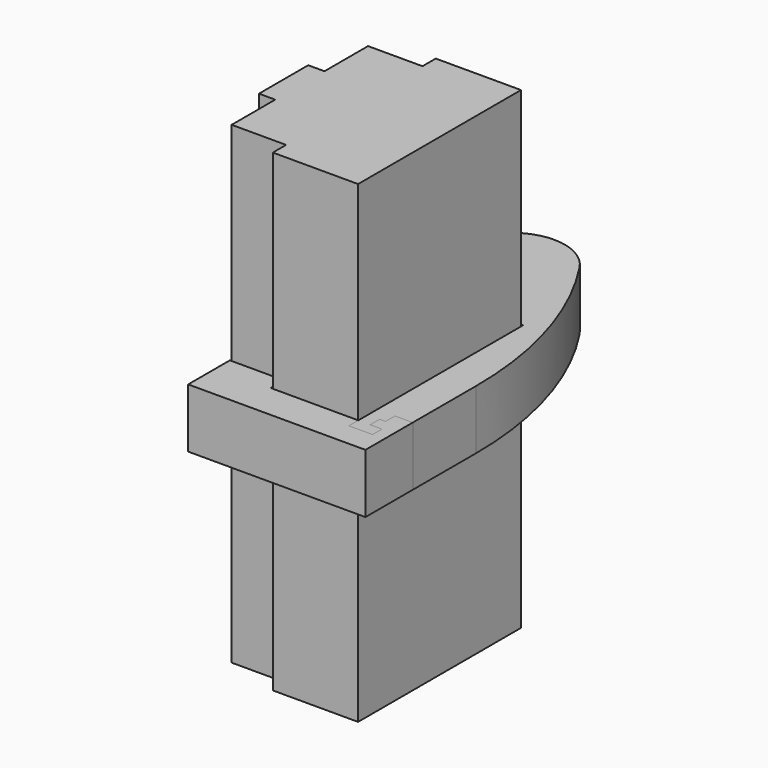
from build123d import *

# Parameters (mm, degrees)
F0_W     = 23
F0_H     = 23
F1_DEPTH = 100
F3_DEPTH = 12.5
F4_DEPTH = 12.5


with BuildPart() as f1:
    # F0 (on Top) → F1 (new body, symmetric)
    with BuildSketch(Plane.XY):
        Polygon((-18, -43), (18, -43), (18, 43), (-18, 43), (-18, 36), (-18, 13), (-18, -13), (-18, -36), align=None)
        with Locations((-29.5, -24.5)):
            Rectangle(F0_W, F0_H)
        with Locations((-29.5, 24.5)):
            Rectangle(F0_W, F0_H)
        Polygon((-41, -13), (-18, -13), (-18, 13), (-41, 13), (-47.8632581255, 13), (-47.8632581255, -13), align=None)
    extrude(amount=F1_DEPTH, both=True)


with BuildPart() as f3:
    # F2 (on Top) → F3 (new body, symmetric)
    with BuildSketch(Plane.XY):
        Polygon((18.5, -48.5), (18.5, -43.5), (-18.5, -43.5), (-18.5, -36.5), (-41.3665984659, -36.5), (-41.3665984659, -58.5), (33.5, -58.5), (33.5, -33.5), (26, -33.5), (26, -38.5), (23.5, -38.5), (23.5, -43.5), (28.5, -43.5), (28.5, -48.5), align=None)
    extrude(amount=F3_DEPTH, both=True)


with BuildPart() as f4:
    # F2 (on Top) → F4 (new body, symmetric)
    with BuildSketch(Plane.XY):
        with BuildLine():
            Line((-41.3665984659, 36.5), (-18.5, 36.5))
            Line((-18.5, 36.5), (-18.5, 43.5))
            Line((-18.5, 43.5), (18.5, 43.5))
            Line((18.5, 43.5), (18.5, -43.5))
            Line((18.5, -43.5), (18.5, -48.5))
            Line((18.5, -48.5), (28.5, -48.5))
            Line((28.5, -48.5), (28.5, -43.5))
            Line((28.5, -43.5), (23.5, -43.5))
            Line((23.5, -43.5), (23.5, -38.5))
            Line((23.5, -38.5), (26, -38.5))
            Line((26, -38.5), (26, -33.5))
            Line((26, -33.5), (33.5, -33.5))
            Line((33.5, -33.5), (33.5, 0))
            ThreePointArc((33.5, 0), (26.7751416528, 45.6788394805), (7.1712129175, 87.4815436301))
            ThreePointArc((7.1712129175, 87.4815436301), (-14.0081077066, 97.4947079369), (-32.6959081349, 83.3669623033))
            Line((-32.6959081349, 83.3669623033), (-41.3665984659, 36.5))
        make_face()
    extrude(amount=F4_DEPTH, both=True)


solid = Compound([f1.part, f3.part, f4.part])
